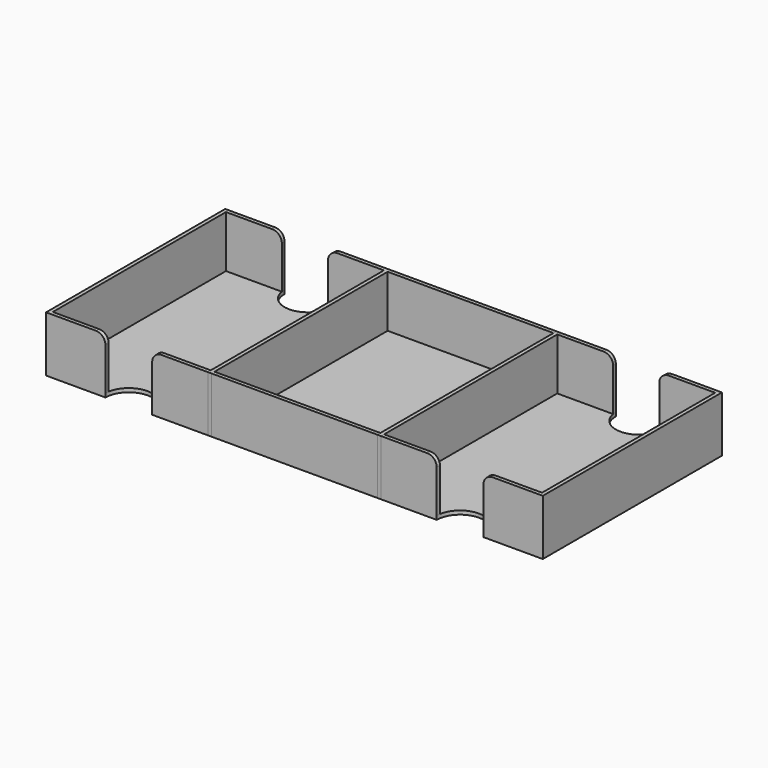
from build123d import *

# Parameters (mm, degrees)
SKETCH112_W          = 70.9
SKETCH112_H          = 92.5
PAD067_DEPTH         = 22.2
THICKNESS047_T       = 1.6
SKETCH110_W          = 67.5
SKETCH110_H          = 92.5
PAD066_DEPTH         = 22.2
THICKNESS046_T       = 1.6
SKETCH111_R          = 10
POCKET039_DEPTH      = 22.201
POCKET039_DEPTH_BACK = 1.601
FILLET014_R          = 4
SKETCH108_W          = 67.5
SKETCH108_H          = 92.5
PAD065_DEPTH         = 22.2
THICKNESS045_T       = 1.6
SKETCH109_R          = 10
POCKET038_DEPTH      = 22.201
POCKET038_DEPTH_BACK = 1.601
FILLET015_R          = 4


with BuildPart() as piecestray001:
    # Sketch112 → Pad067 (new body)
    with BuildSketch(Plane.XY):
        Rectangle(SKETCH112_W, SKETCH112_H)
    extrude(amount=PAD067_DEPTH)

    # Thickness047
    thickness047_openings = [piecestray001.faces().sort_by_distance(p)[0] for p in [
        (0, 0, 22.2),
    ]]
    offset(amount=THICKNESS047_T, openings=thickness047_openings, kind=Kind.INTERSECTION)


with BuildPart() as piecestray001_1:
    # Body059 placement: moved
    add(piecestray001.part.moved(Location((70.8, 0, 0))))


with BuildPart() as obj1:
    # Sketch110 → Pad066 (new body)
    with BuildSketch(Plane.XY):
        Rectangle(SKETCH110_W, SKETCH110_H)
    extrude(amount=PAD066_DEPTH)

    # Thickness046
    thickness046_openings = [obj1.faces().sort_by_distance(p)[0] for p in [
        (0, 0, 22.2),
    ]]
    offset(amount=THICKNESS046_T, openings=thickness046_openings, kind=Kind.INTERSECTION)

    # Sketch111 → Pocket039 (cut, two sides)
    with BuildSketch(Plane.XY) as pocket039_sk:
        with Locations((0, -47.85)):
            Circle(SKETCH111_R)
        with Locations((0, 47.85)):
            Circle(SKETCH111_R)
    extrude(amount=POCKET039_DEPTH, mode=Mode.SUBTRACT)
    extrude(pocket039_sk.sketch, amount=-POCKET039_DEPTH_BACK, mode=Mode.SUBTRACT)

    # Fillet014
    fillet014_edges = [obj1.edges().sort_by_distance(p)[0] for p in [
        (9.967741, 47.047411, 22.2),
        (-9.967741, 47.047411, 22.2),
        (-9.967741, -47.047411, 22.2),
        (9.967741, -47.047411, 22.2),
    ]]
    fillet(fillet014_edges, radius=FILLET014_R)


with BuildPart() as obj1_1:
    # Body058 placement: moved
    add(obj1.part.moved(Location((141.6, 0, 0))))


with BuildPart() as obj2:
    # Sketch108 → Pad065 (new body)
    with BuildSketch(Plane.XY):
        Rectangle(SKETCH108_W, SKETCH108_H)
    extrude(amount=PAD065_DEPTH)

    # Thickness045
    thickness045_openings = [obj2.faces().sort_by_distance(p)[0] for p in [
        (0, 0, 22.2),
    ]]
    offset(amount=THICKNESS045_T, openings=thickness045_openings, kind=Kind.INTERSECTION)

    # Sketch109 → Pocket038 (cut, two sides)
    with BuildSketch(Plane.XY) as pocket038_sk:
        with Locations((0, -47.85)):
            Circle(SKETCH109_R)
        with Locations((0, 47.85)):
            Circle(SKETCH109_R)
    extrude(amount=POCKET038_DEPTH, mode=Mode.SUBTRACT)
    extrude(pocket038_sk.sketch, amount=-POCKET038_DEPTH_BACK, mode=Mode.SUBTRACT)

    # Fillet015
    fillet015_edges = [obj2.edges().sort_by_distance(p)[0] for p in [
        (-9.967741, 47.047411, 22.2),
        (-9.967741, -47.047411, 22.2),
        (9.967741, 47.047411, 22.2),
        (9.967741, -47.047411, 22.2),
    ]]
    fillet(fillet015_edges, radius=FILLET015_R)

    # Boolean002: union PiecesTray001, obj1
    add(piecestray001_1.part)
    add(obj1_1.part)


solid = obj2.part
